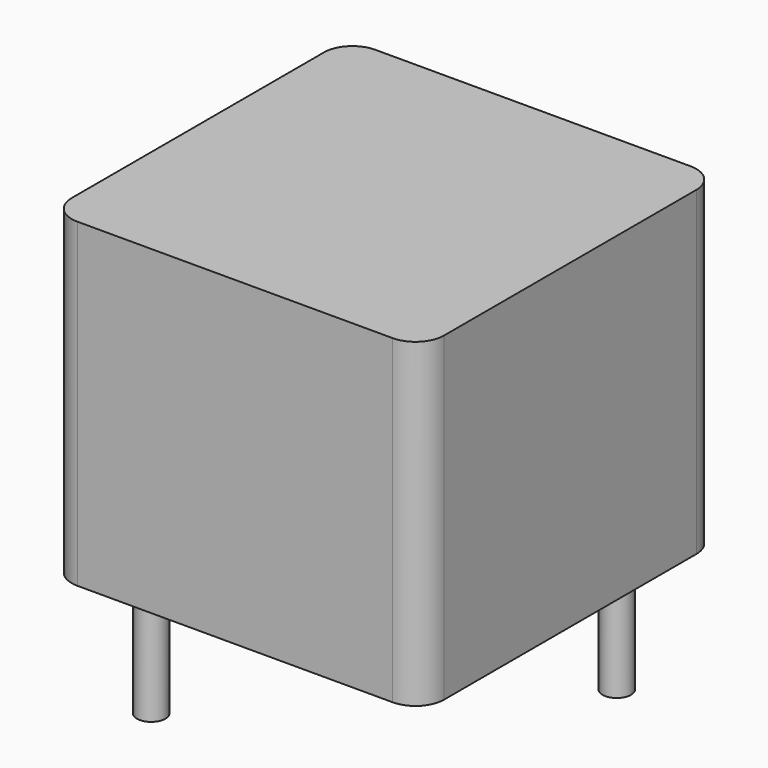
from build123d import *

# Parameters (mm, degrees)
SKETCH001_R  = 0.35
PAD001_DEPTH = 3.5
SKETCH_W     = 9.14
SKETCH_H     = 9.14
PAD_DEPTH    = 7.87
FILLET_R     = 0.7


with BuildPart() as pad001:
    # Sketch001 → Pad001 (new body)
    with BuildSketch(Plane.XY.offset(0.5)):
        Circle(SKETCH001_R)
        with Locations((6.35, 6.35)):
            Circle(SKETCH001_R)
    extrude(amount=-PAD001_DEPTH)


with BuildPart() as fillet_body:
    # Sketch → Pad (new body)
    with BuildSketch(Plane.XY.offset(0.1)):
        with Locations((3.175, 3.175)):
            Rectangle(SKETCH_W, SKETCH_H)
    extrude(amount=PAD_DEPTH)

    # Fillet
    fillet_edges = [fillet_body.edges().sort_by_distance(p)[0] for p in [
        (7.745, -1.395, 4.035),
        (7.745, 7.745, 4.035),
        (-1.395, -1.395, 4.035),
        (-1.395, 7.745, 4.035),
    ]]
    fillet(fillet_edges, radius=FILLET_R)


solid = Compound([pad001.part, fillet_body.part])
